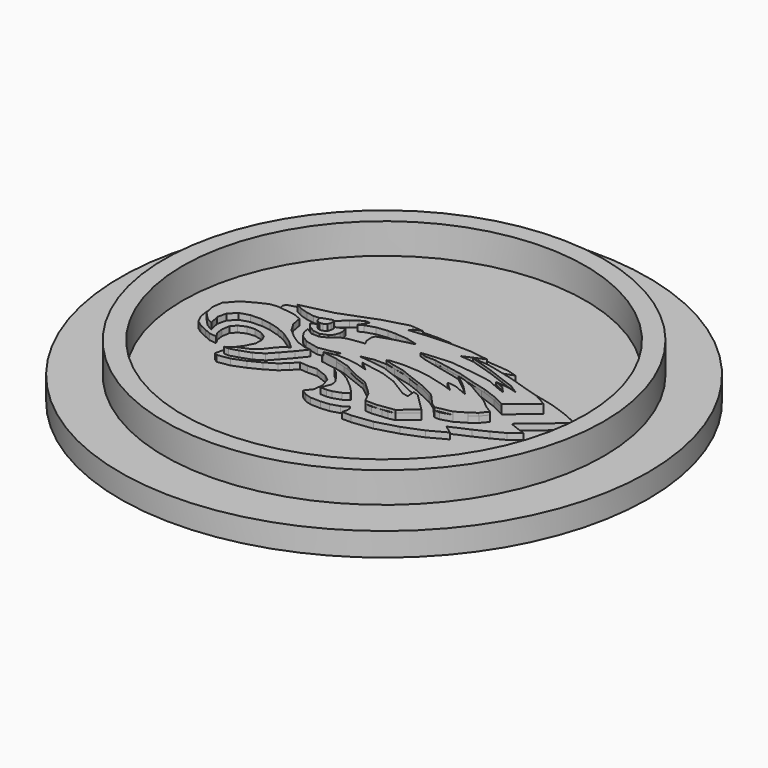
from build123d import *

# Parameters (mm, degrees)
F2_DEPTH  = 0.396875
F4_DEPTH  = 0.396875
F6_DEPTH  = 0.396875
F8_DEPTH  = 0.396875
F10_DEPTH = 0.1905
F11_R     = 14.2875
F11_R_2   = 13.096875
F12_DEPTH = 1.984375
F13_R     = 17.160666
F14_DEPTH = 1.524


with BuildPart() as f2:
    # F1 (on face) → F2 (new body)
    with BuildSketch(Plane.XY):
        Polygon((-8.311959, 2.16385), (-8.247643, 1.858346), (-8.89081, 1.520683), (-9.759086, 1.134783), (-10.434411, 0.60417), (-10.691678, 0.21827), (-10.916787, -0.424897), (-10.900708, -0.826877), (-10.820312, -1.35749), (-10.579124, -1.872024), (-10.177145, -2.161449), (-9.710848, -2.370478), (-9.324948, -2.547349), (-8.842573, -2.611666), (-9.035523, -2.241845), (-9.08376, -1.823786), (-9.003364, -1.325332), (-8.730019, -1.003748), (-8.279801, -0.794719), (-7.797426, -0.746481), (-7.31505, -0.859035), (-6.945229, -1.084144), (-6.768358, -1.453965), (-6.784438, -1.95242), (-7.041704, -2.483032), (-7.395447, -2.965408), (-7.604476, -3.544258), (-7.71703, -4.074871), (-7.540159, -4.187426), (-6.7362, -4.058792), (-5.932241, -3.737209), (-5.192599, -3.367387), (-4.517273, -2.965408), (-4.083135, -2.563428), (-3.713314, -2.177528), (-3.19878, -2.225765), (-2.587772, -2.209686), (-1.83205, -2.499112), (-1.43007, -2.820695), (-1.2532, -3.447783), (-1.333595, -4.058792), (-1.671258, -4.49293), (-1.285358, -4.750197), (-0.883378, -4.862751), (-0.224132, -4.87883), (0.32256, -4.830593), (0.901411, -4.653722), (1.30339, -4.412534), (1.399865, -4.525088), (1.448103, -4.734118), (1.351628, -5.103939), (1.946557, -5.103939), (3.26505, -4.943147), (4.680018, -4.541168), (5.934194, -4.042713), (7.043657, -3.447783), (6.480886, -3.045804), (7.718983, -2.499112), (8.5551, -2.097132), (9.342981, -1.679073), (10.002227, -1.180619), (8.95708, -0.778639), (8.95708, -0.666085), (11.272482, 1.263417), (11.015215, 1.456367), (10.32381, 1.761871), (9.230426, 2.147771), (8.008408, 2.437197), (6.979341, 2.630147), (6.094986, 2.75878), (4.760414, 2.96781), (4.776493, 3.096443), (4.985522, 3.257235), (5.41966, 3.401948), (5.725165, 3.514502), (5.146314, 3.691373), (4.519226, 3.755689), (3.683109, 3.820006), (2.428933, 3.852165), (1.399865, 3.852165), (0.51551, 3.836086), (0.70846, 4.061194), (0.965727, 4.254144), (0.081372, 4.302382), (-0.770824, 4.286302), (-1.623021, 4.189827), (-2.491297, 3.980798), (-3.616839, 3.643135), (-4.758461, 3.225076), (-5.884003, 2.903493), (-7.025626, 2.614068), (-7.508001, 2.517593), (-8.167247, 2.340722), align=None)
    extrude(amount=F2_DEPTH)

    # F3 (on face) → F4 (join)
    with BuildSketch(Plane.XY.offset(0.396875)):
        Polygon((-6.478352, 2.289896), (-7.3215, 2.095158), (-6.903017, 1.878214), (-6.403028, 1.724321), (-5.88623, 1.634618), (-5.093192, 1.669025), (-4.702778, 1.887852), (-4.164096, 2.378135), (-3.772889, 2.677556), (-3.479999, 2.849737), (-3.205029, 2.844897), (-3.304297, 2.620944), (-3.550248, 2.286724), (-3.257519, 2.442786), (-2.624642, 2.641225), (-1.912001, 2.72541), (-1.410584, 2.716585), (-0.618498, 2.65428), (0.059255, 2.481136), (-0.006078, 2.417801), (-0.411557, 2.312088), (-0.898068, 2.191679), (-1.368562, 2.054868), (-2.034105, 1.824761), (-2.116881, 1.63276), (-2.088813, 1.196989), (-1.946095, 0.904291), (-2.739768, 0.805411), (-3.161262, 0.716101), (-3.453835, 0.576158), (-3.747834, 0.291146), (-4.251787, 0.042074), (-4.76938, 0.051184), (-5.219577, 0.333172), (-5.1747, -0.03841), (-4.919868, -0.445931), (-4.421464, -0.761009), (-3.582122, -0.953118), (-2.755783, -0.82257), (-2.252939, -0.686327), (-2.352049, -0.894161), (-2.51665, -1.18145), (-2.891207, -1.4328), (-2.794159, -1.434507), (-1.825101, -1.596656), (-1.243921, -1.719735), (0.59318, -2.44529), (1.219239, -2.939951), (1.843869, -3.579681), (2.193053, -4.262925), (2.629454, -4.302849), (3.261062, -4.233359), (3.633398, -4.207669), (4.022543, -4.11779), (5.049956, -3.281439), (4.889952, -3.101287), (4.425484, -2.625591), (3.735361, -2.065317), (2.737127, -1.580226), (1.497381, -0.978035), (0.44967, -0.588802), (-0.422657, -0.460599), (-1.327649, -0.364064), (-0.436135, -0.186298), (0.307902, -0.199393), (0.953623, -0.33973), (2.164033, -0.635098), (2.889201, -0.921925), (4.113089, -1.491594), (4.675716, -1.856168), (5.379793, -2.642388), (5.719463, -2.648367), (6.417197, -2.434947), (7.084326, -2.043654), (7.540707, -1.697015), (7.900833, -1.268076), (7.450635, -0.986088), (6.824737, -0.475308), (6.213268, -0.142118), (5.505703, 0.289493), (4.716469, 0.641933), (3.716173, 0.917482), (2.489431, 1.197015), (1.521007, 1.423639), (2.200347, 1.411682), (2.716987, 1.30586), (3.556805, 1.162108), (4.83223, 0.897838), (5.880576, 0.57308), (7.025177, 0.16602), (7.846124, -0.251464), (9.477234, 1.106268), (8.914132, 1.422486), (7.962994, 1.761655), (7.092255, 2.051044), (6.027575, 2.359969), (4.832865, 2.606696), (3.572661, 2.773969), (2.683686, 2.854101), (3.967199, 3.411881), (2.787869, 3.577731), (1.332143, 3.603353), (0.053546, 3.54525), (-1.177161, 3.421819), (-0.997177, 3.628229), (-0.510033, 3.813112), (-1.399009, 3.893244), (-1.999377, 3.710354), (-2.988891, 3.437585), (-3.947005, 3.067534), (-5.262233, 2.574798), align=None)
    extrude(amount=F4_DEPTH)

    # F5 (on face) → F6 (join)
    with BuildSketch(Plane.XY.offset(0.396875)):
        Polygon((-0.906716, -2.323359), (-1.498608, -2.141239), (-1.392371, -2.293006), (-1.11919, -2.50548), (-0.846009, -2.854545), (-0.542475, -3.264316), (-0.466591, -3.643735), (-0.618358, -4.038329), (-0.724595, -4.26598), (-0.33, -4.281157), (0.003888, -4.235627), (0.519896, -4.053506), (0.868961, -3.795502), (0.838607, -3.719618), (0.368129, -3.233963), (-0.299647, -2.672424), align=None)
        Polygon((-9.921691, -1.943941), (-9.496743, -2.171592), (-9.542272, -1.959118), (-9.648509, -1.503816), (-9.51192, -0.927101), (-9.071794, -0.471799), (-8.449549, -0.289678), (-7.721066, -0.274502), (-7.113996, -0.365562), (-6.461397, -0.547683), (-5.884682, -0.805687), (-5.141022, -1.306519), (-4.625014, -1.776997), (-4.989255, -2.004648), (-5.307966, -2.36889), (-5.596324, -2.733131), (-5.732914, -2.915252), (-6.188217, -3.218786), (-6.810462, -3.491967), (-7.326471, -3.841032), (-7.038113, -3.856209), (-6.476574, -3.689265), (-5.793622, -3.446437), (-5.216906, -3.097373), (-4.761604, -2.596541), (-4.215242, -1.974295), (-3.71441, -1.352049), (-4.139359, -1.306519), (-4.716074, -1.109221), (-5.24726, -0.760157), (-5.808798, -0.274502), (-6.142686, 0.302214), (-6.2641, 0.954813), (-6.780109, 1.167287), (-7.963893, 1.319055), (-8.449549, 1.258348), (-9.011087, 1.000343), (-9.800277, 0.575395), (-10.422522, -0.122734), (-10.52876, -0.820864), (-10.361816, -1.473463), align=None)
        Polygon((-3.66888, 1.243171), (-3.75994, 1.577059), (-4.291126, 1.349408), (-5.277613, 1.01552), (-5.535617, 0.894106), (-5.29279, 0.605748), (-4.883018, 0.362921), (-4.427716, 0.302214), (-3.987591, 0.469158), (-3.775117, 0.696809), (-3.66888, 1.01552), align=None)
    extrude(amount=F6_DEPTH)

    # F9 (on face) → F10 (join)
    with BuildSketch(Plane.XY.offset(0.79375)):
        Polygon((-2.067121, -1.269032), (-2.794159, -1.434507), (-1.825101, -1.596656), (-0.892671, -1.858459), (0, -2.334717), (0.90621, -2.692621), (1.531554, -3.259816), (1.843869, -3.579681), (2.193053, -4.262925), (2.945258, -4.268104), (4.022543, -4.11779), (5.03172, -3.263847), (3.871361, -2.105526), (3.54434, -2.002562), (3.573151, -2.546291), (3.174296, -2.46276), (1.986091, -1.722197), (1.00431, -1.377034), (-0.191538, -1.162713), (-0.53589, -1.096344), (0.088155, -1.611219), (-0.656487, -1.388779), (-1.344473, -1.29231), align=None)
        Polygon((4.716469, 0.641933), (4.216321, 0.779708), (5.05523, 0.110907), (5.7186, -0.566534), (4.84475, -0.201287), (4.39175, -0.118731), (4.229675, -0.13979), (4.817982, -0.673449), (4.145532, -0.44971), (2.965939, -0.144389), (2.259905, -0.048246), (1.229719, 0.005782), (0.400576, -0.063564), (0.257626, -0.138702), (0.799258, -0.306181), (1.633152, -0.487414), (2.526617, -0.840808), (3.501145, -1.20676), (4.394403, -1.673881), (5.027755, -2.381124), (5.379793, -2.642388), (6.417197, -2.434947), (7.084326, -2.043654), (7.529056, -1.731298), (7.900833, -1.268076), (7.450635, -0.986088), (6.824737, -0.475308), (6.004553, -0.014803), (5.505703, 0.289493), align=None)
        Polygon((4.624913, 2.697407), (3.572661, 2.773969), (5.084012, 2.306555), (6.175517, 1.890799), (6.957332, 1.614603), (7.560817, 1.226349), (6.961997, 1.378846), (6.111576, 1.472393), (6.694143, 1.228894), (7.099815, 0.800796), (6.499559, 1.025835), (5.752764, 1.357086), (4.683971, 1.53741), (2.982771, 1.742636), (1.684733, 1.646711), (1.090217, 1.581588), (1.521007, 1.423639), (2.200347, 1.411682), (3.136896, 1.233984), (4.194518, 1.029973), (5.145231, 0.735459), (6.137965, 0.481543), (7.095041, 0.129473), (7.846124, -0.251464), (9.477234, 1.106268), (8.637254, 1.572268), (7.791689, 1.818588), (6.602576, 2.206891), (5.477486, 2.49505), align=None)
    extrude(amount=F10_DEPTH)


with BuildPart() as f8:
    # F7 (on face) → F8 (new body)
    with BuildSketch(Plane.XY.offset(0.79375)):
        Polygon((-4.22009, 1.198177), (-4.346428, 1.324515), (-5.00519, 1.107936), (-5.023238, 1.026718), (-5.014214, 0.927453), (-4.951045, 0.774043), (-4.851779, 0.692825), (-4.698369, 0.638681), (-4.508863, 0.665753), (-4.310331, 0.783067), (-4.238138, 0.990622), align=None)
    extrude(amount=F8_DEPTH)


with BuildPart() as f12:
    # F11 (on face) → F12 (new body)
    with BuildSketch(Plane.XY):
        Circle(F11_R)
        Circle(F11_R_2, mode=Mode.SUBTRACT)
    extrude(amount=F12_DEPTH)


with BuildPart() as f14:
    # F13 (on face) → F14 (new body)
    with BuildSketch(Plane(origin=(0, 0, 0), x_dir=(1, 0, 0), z_dir=(0, 0, -1))):
        Circle(F13_R)
    extrude(amount=F14_DEPTH)


solid = Compound([f2.part, f8.part, f12.part, f14.part])
